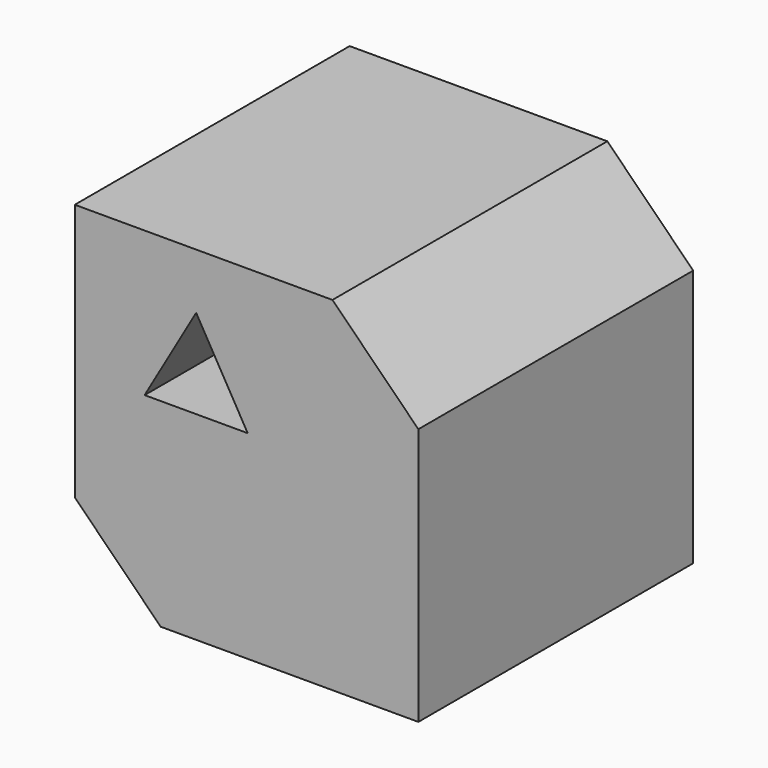
from build123d import *

# Parameters (mm, degrees)
F0_W     = 100
F0_H     = 100
F1_DEPTH = 100
F3_SIZE  = 25
F4_SIZE  = 25
F5_DEPTH = 100


with BuildPart() as f1:
    # F0 (on Front) → F1 (new body)
    with BuildSketch(Plane.XZ):
        with Locations((14.669374, 9.856632)):
            Rectangle(F0_W, F0_H)
    extrude(amount=F1_DEPTH)

    # F3
    f3_edges = [f1.edges().sort_by_distance(p)[0] for p in [
        (64.669374, -50, 59.856632),
    ]]
    chamfer(f3_edges, length=F3_SIZE)

    # F4
    f4_edges = [f1.edges().sort_by_distance(p)[0] for p in [
        (-35.330626, -50, -40.143368),
    ]]
    chamfer(f4_edges, length=F4_SIZE)

    # F2 (on face) → F5 (cut)
    with BuildSketch(Plane.XZ.offset(100)):
        Polygon((15, 17.688339), (0, 43.669101), (-15, 17.688339), align=None)
    extrude(amount=-F5_DEPTH, mode=Mode.SUBTRACT)


solid = f1.part
